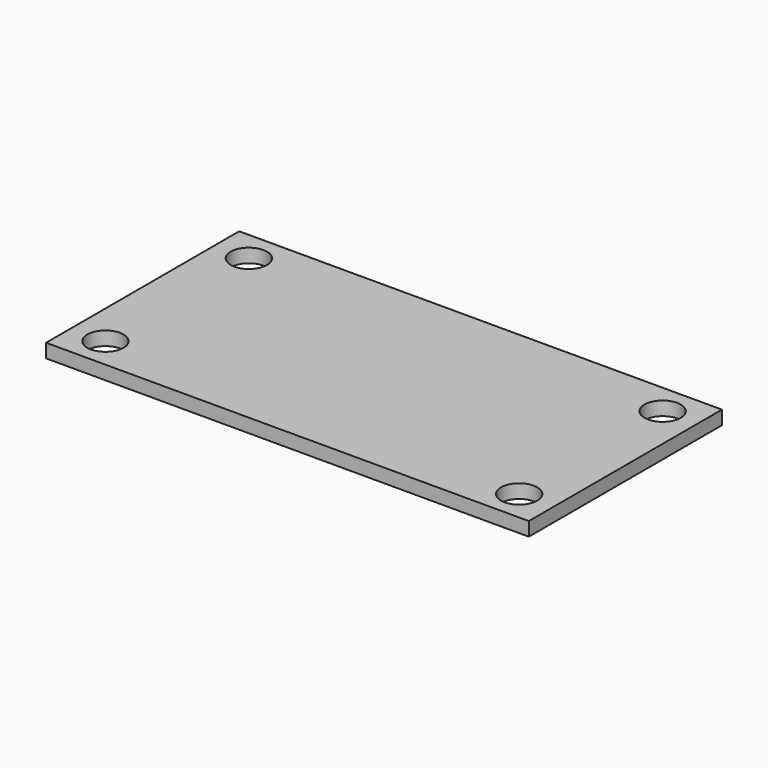
from build123d import *

# Parameters (mm, degrees)
F0_W     = 222.25
F0_H     = 111.125
F1_DEPTH = 6.35
F3_D     = 16.66748


with BuildPart() as f1:
    # F0 (on Top) → F1 (new body)
    with BuildSketch(Plane.XY):
        with Locations((-111.125, 55.5625)):
            Rectangle(F0_W, F0_H)
    extrude(amount=F1_DEPTH)

    # F3 (through all)
    with Locations(Plane.XY.offset(6.35)):
        with Locations((-206.375, 96.8502), (-15.875, 96.8502), (-15.875, 14.3002), (-206.375, 14.3002)):
            Hole(F3_D / 2)


solid = f1.part
